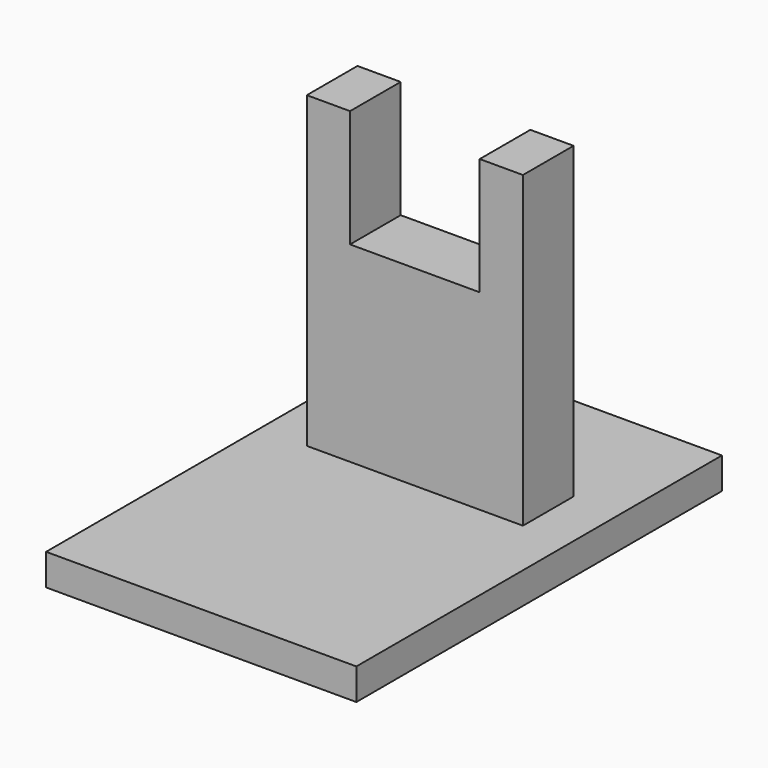
from build123d import *

# Parameters (mm, degrees)
F0_W     = 35
F0_H     = 50
F1_DEPTH = 10.25
F2_W     = 21
F2_H     = 19
F3_DEPTH = 25
F5_W     = 50.25
F5_H     = 74
F6_DEPTH = 5.08


with BuildPart() as f1:
    # F0 (on Front) → F1 (new body)
    with BuildSketch(Plane.XZ):
        Rectangle(F0_W, F0_H)
    extrude(amount=F1_DEPTH)

    # F2 (on face) → F3 (cut)
    with BuildSketch(Plane.XZ.offset(10.25)):
        with Locations((0, 15.5)):
            Rectangle(F2_W, F2_H)
    extrude(amount=-F3_DEPTH, mode=Mode.SUBTRACT)

    # F5 (on offset) → F6 (join)
    with BuildSketch(Plane(origin=(0, 0, -25), x_dir=(1, 0, 0), z_dir=(0, 0, -1))):
        with Locations((0, 16.5)):
            Rectangle(F5_W, F5_H)
    extrude(amount=F6_DEPTH)


solid = f1.part
